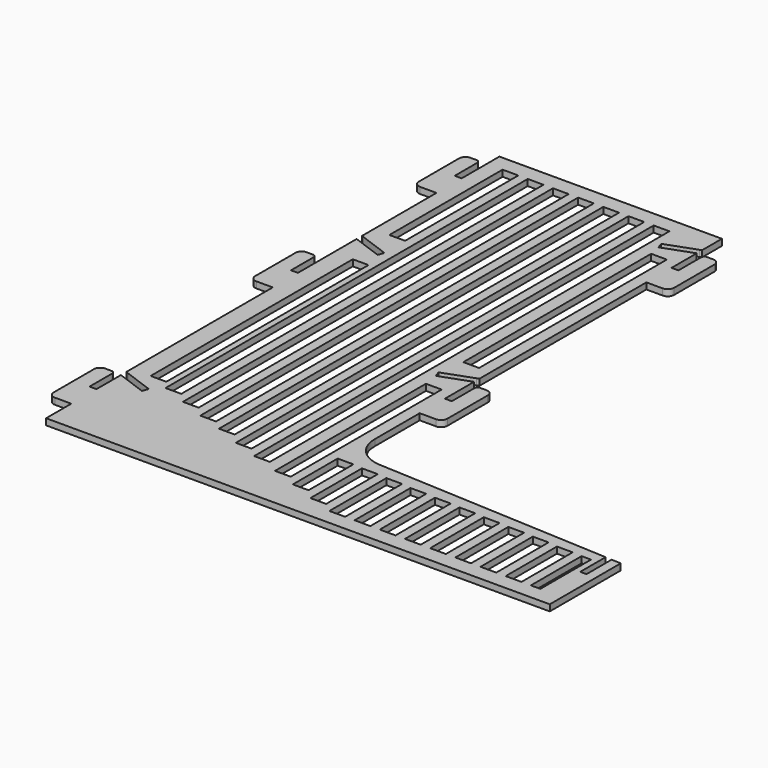
from build123d import *

# Parameters (mm, degrees)
F2_DEPTH = 2
F3_W     = 2
F3_H     = 10
F3_H_2   = 7.419568
F4_DEPTH = 25
F6_DEPTH = 2
F7_W     = 5
F7_H     = 44.93185
F7_H_2   = 80.277377
F7_H_3   = 143.82022
F7_H_4   = 146.914949
F7_H_5   = 150.008155
F7_H_6   = 155.922672
F7_H_7   = 152.60311
F7_H_8   = 158.631397
F7_H_9   = 74.565352
F7_H_10  = 59.935174
F7_H_11  = 17.802537
F7_H_12  = 20.475702
F7_H_13  = 22.61665
F7_H_14  = 22.198746
F7_H_15  = 21.923671
F7_H_16  = 21.644043
F7_H_17  = 21.303791
F7_H_18  = 21.036336
F7_H_19  = 20.777645
F7_H_20  = 20.346487
F7_W_2   = 3
F7_H_21  = 20.140204
F8_DEPTH = 5


with BuildPart() as f2:
    # F1 (on Top) → F2 (new body)
    with BuildSketch(Plane.XY):
        with BuildLine():
            Line((-10.286918, 88.926369), (-80.9691, 88.926369))
            Line((-80.9691, 88.926369), (-80.9691, -91.073631))
            Line((-80.9691, -91.073631), (79.0309, -91.073631))
            Line((79.0309, -91.073631), (79.0309, -62.904311))
            Line((79.0309, -62.904311), (-0.788567, -58.895134))
            ThreePointArc((-0.788567, -58.895134), (-7.533175, -55.799151), (-10.286918, -48.907724))
            Line((-10.286918, -48.907724), (-10.286918, 88.926369))
        make_face()
    extrude(amount=F2_DEPTH)

    # F3 (on Top) → F4 (cut)
    with BuildSketch(Plane.XY):
        Polygon((-10.970959, -7.614357), (-20.367885, -11.034559), (-19.683845, -12.913944), (-10.286918, -9.493742), align=None)
        Polygon((-5.092329, -5.474711), (-10.970959, -7.614357), (-10.286918, -9.493742), (-4.408289, -7.354096), align=None)
        Polygon((-10.970959, 80.805754), (-20.367885, 77.385553), (-19.683845, 75.506168), (-10.286918, 78.926369), align=None)
        Polygon((-3.998845, 83.343396), (-10.970959, 80.805754), (-10.286918, 78.926369), (-3.314805, 81.464011), align=None)
        Polygon((-80.9691, 32.230381), (-71.572174, 28.810179), (-70.888133, 30.689565), (-80.28506, 34.109766), align=None)
        Polygon((-87.941213, 34.768023), (-80.9691, 32.230381), (-80.28506, 34.109766), (-87.257173, 36.647408), align=None)
        Polygon((-80.9691, -61.360746), (-71.572174, -64.780947), (-70.888133, -62.901562), (-80.28506, -59.48136), align=None)
        Polygon((-87.941213, -58.823104), (-80.9691, -61.360746), (-80.28506, -59.48136), (-87.257173, -56.943719), align=None)
        with Locations((75.0309, -67.753627)):
            Rectangle(F3_W, F3_H)
        with Locations((75.0309, -59.043843)):
            Rectangle(F3_W, F3_H_2)
    extrude(amount=F4_DEPTH, mode=Mode.SUBTRACT)

    # F5 (on Top) → F6 (join)
    with BuildSketch(Plane.XY):
        with BuildLine():
            Line((-84.190791, -61.073631), (-86.1691, -61.073631))
            ThreePointArc((-86.1691, -61.073631), (-87.583313, -61.659417), (-88.1691, -63.073631))
            Line((-88.1691, -63.073631), (-88.1691, -79.073631))
            ThreePointArc((-88.1691, -79.073631), (-87.583313, -80.487844), (-86.1691, -81.073631))
            Line((-86.1691, -81.073631), (-83.1691, -81.073631))
            Line((-83.1691, -81.073631), (-80.9691, -81.073631))
            Line((-80.9691, -81.073631), (-80.9691, -71.073631))
            Line((-80.9691, -71.073631), (-83.1691, -71.073631))
            Line((-83.1691, -71.073631), (-83.1691, -62.095322))
            ThreePointArc((-83.1691, -62.095322), (-83.468346, -61.372877), (-84.190791, -61.073631))
        make_face()
        with BuildLine():
            Line((-84.190791, 18.926369), (-86.1691, 18.926369))
            ThreePointArc((-86.1691, 18.926369), (-87.583313, 18.340583), (-88.1691, 16.926369))
            Line((-88.1691, 16.926369), (-88.1691, 0.926369))
            ThreePointArc((-88.1691, 0.926369), (-87.583313, -0.487844), (-86.1691, -1.073631))
            Line((-86.1691, -1.073631), (-83.1691, -1.073631))
            Line((-83.1691, -1.073631), (-80.9691, -1.073631))
            Line((-80.9691, -1.073631), (-80.9691, 8.926369))
            Line((-80.9691, 8.926369), (-83.1691, 8.926369))
            Line((-83.1691, 8.926369), (-83.1691, 17.904678))
            ThreePointArc((-83.1691, 17.904678), (-83.468346, 18.627123), (-84.190791, 18.926369))
        make_face()
        with BuildLine():
            Line((-84.190791, 83.926369), (-86.1691, 83.926369))
            ThreePointArc((-86.1691, 83.926369), (-87.583313, 83.340583), (-88.1691, 81.926369))
            Line((-88.1691, 81.926369), (-88.1691, 65.926369))
            ThreePointArc((-88.1691, 65.926369), (-87.583313, 64.512156), (-86.1691, 63.926369))
            Line((-86.1691, 63.926369), (-80.9691, 63.926369))
            Line((-80.9691, 63.926369), (-80.9691, 73.926369))
            Line((-80.9691, 73.926369), (-83.1691, 73.926369))
            Line((-83.1691, 73.926369), (-83.1691, 82.904678))
            ThreePointArc((-83.1691, 82.904678), (-83.468346, 83.627123), (-84.190791, 83.926369))
        make_face()
        with BuildLine():
            Line((-10.286918, 58.926369), (-9.800001, 58.926369))
            Line((-9.800001, 58.926369), (-8.086918, 58.926369))
            Line((-8.086918, 58.926369), (-7.600001, 58.926369))
            Line((-7.600001, 58.926369), (-5.086918, 58.926369))
            ThreePointArc((-5.086918, 58.926369), (-3.672705, 59.512156), (-3.086918, 60.926369))
            Line((-3.086918, 60.926369), (-3.086918, 76.926369))
            ThreePointArc((-3.086918, 76.926369), (-3.672705, 78.340583), (-5.086918, 78.926369))
            Line((-5.086918, 78.926369), (-7.065227, 78.926369))
            ThreePointArc((-7.065227, 78.926369), (-7.787672, 78.627123), (-8.086918, 77.904678))
            Line((-8.086918, 77.904678), (-8.086918, 68.926369))
            Line((-8.086918, 68.926369), (-10.286918, 68.926369))
            Line((-10.286918, 68.926369), (-10.286918, 58.926369))
        make_face()
        with BuildLine():
            Line((-10.286918, -21.073631), (-10.286918, -31.073631))
            Line((-10.286918, -31.073631), (-8.086918, -31.073631))
            Line((-8.086918, -31.073631), (-5.086918, -31.073631))
            ThreePointArc((-5.086918, -31.073631), (-3.672705, -30.487844), (-3.086918, -29.073631))
            Line((-3.086918, -29.073631), (-3.086918, -13.073631))
            ThreePointArc((-3.086918, -13.073631), (-3.672705, -11.659417), (-5.086918, -11.073631))
            Line((-5.086918, -11.073631), (-7.065227, -11.073631))
            ThreePointArc((-7.065227, -11.073631), (-7.787672, -11.372877), (-8.086918, -12.095322))
            Line((-8.086918, -12.095322), (-8.086918, -21.073631))
            Line((-8.086918, -21.073631), (-10.286918, -21.073631))
        make_face()
    extrude(amount=F6_DEPTH)

    # F7 (on Top) → F8 (cut)
    with BuildSketch(Plane.XY):
        with Locations((-73.4691, 61.460444)):
            Rectangle(F7_W, F7_H)
        with Locations((-72.413613, -17.006834)):
            Rectangle(F7_W, F7_H_2)
        with Locations((-65.4691, 12.016259)):
            Rectangle(F7_W, F7_H_3)
        with Locations((-57.4691, 10.468894)):
            Rectangle(F7_W, F7_H_4)
        with Locations((-49.4691, 8.922292)):
            Rectangle(F7_W, F7_H_5)
        with Locations((-33.4691, 5.965033)):
            Rectangle(F7_W, F7_H_6)
        with Locations((-41.4691, 7.624814)):
            Rectangle(F7_W, F7_H_7)
        with Locations((-25.4691, 4.61067)):
            Rectangle(F7_W, F7_H_8)
        with Locations((-16.4691, 34.384946)):
            Rectangle(F7_W, F7_H_9)
        with Locations((-16.4691, -47.720004)):
            Rectangle(F7_W, F7_H_10)
        with Locations((-8.4691, -71.7002)):
            Rectangle(F7_W, F7_H_11)
        with Locations((-0.4691, -73.37924)):
            Rectangle(F7_W, F7_H_12)
        with Locations((7.5309, -74.765306)):
            Rectangle(F7_W, F7_H_13)
        with Locations((15.5309, -74.974258)):
            Rectangle(F7_W, F7_H_14)
        with Locations((23.5309, -75.111795)):
            Rectangle(F7_W, F7_H_15)
        with Locations((31.5309, -75.25161)):
            Rectangle(F7_W, F7_H_16)
        with Locations((39.5309, -75.421735)):
            Rectangle(F7_W, F7_H_17)
        with Locations((47.5309, -75.555463)):
            Rectangle(F7_W, F7_H_18)
        with Locations((55.5309, -75.684809)):
            Rectangle(F7_W, F7_H_19)
        with Locations((63.5309, -75.900387)):
            Rectangle(F7_W, F7_H_20)
        with Locations((70.5309, -76.003529)):
            Rectangle(F7_W_2, F7_H_21)
    extrude(amount=F8_DEPTH, mode=Mode.SUBTRACT)


solid = f2.part
